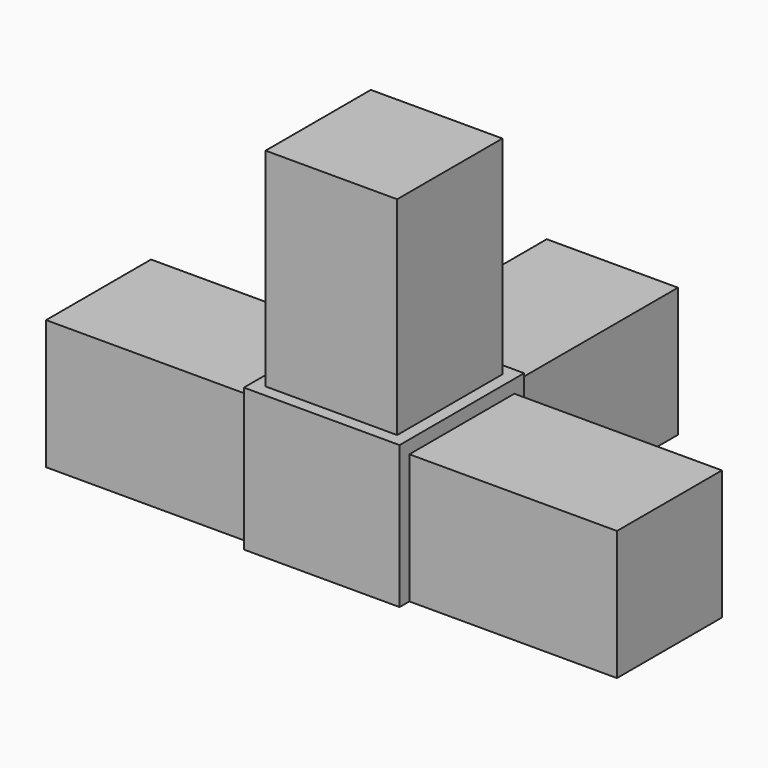
from build123d import *

# Parameters (mm, degrees)
F1_DEPTH = 15.85
F3_DEPTH = 1.6
F4_W     = 16.1
F4_H     = 16.1
F5_DEPTH = 25.4


with BuildPart() as f1:
    # F0 (on Top) → F1 (new body)
    with BuildSketch(Plane.XY):
        Polygon((-25.4, 1.5), (0, 1.5), (0, 17.55), (-25.4, 17.55), (-25.4, 19.05), (-26.9, 19.05), (-26.9, 44.45), (-42.95, 44.45), (-42.95, 19.05), (-44.45, 19.05), (-44.45, 17.55), (-69.85, 17.55), (-69.85, 1.5), (-44.45, 1.5), (-44.45, 0), (-25.4, 0), align=None)
    extrude(amount=F1_DEPTH)

    # F2 (on face) → F3 (join)
    with BuildSketch(Plane.XY.offset(15.85)):
        Polygon((-42.95, 19.05), (-44.45, 19.05), (-44.45, 17.55), (-44.45, 1.5), (-44.45, 0), (-25.4, 0), (-25.4, 1.5), (-25.4, 17.55), (-25.4, 19.05), (-26.9, 19.05), align=None)
    extrude(amount=F3_DEPTH)

    # F4 (on face) → F5 (join)
    with BuildSketch(Plane.XY.offset(17.45)):
        with Locations((-34.925, 9.525)):
            Rectangle(F4_W, F4_H)
    extrude(amount=F5_DEPTH)


solid = f1.part
